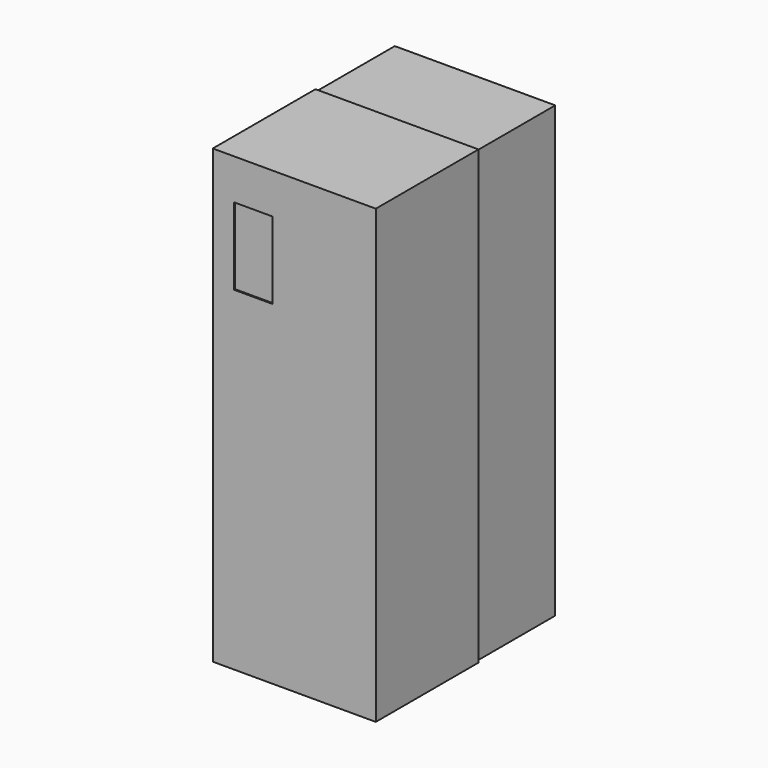
from build123d import *

# Parameters (mm, degrees)
F0_W     = 250
F0_H     = 700
F1_DEPTH = 175
F3_W     = 254
F3_H     = 704
F3_W_2   = 250
F3_H_2   = 700
F3_W_3   = 60
F3_H_3   = 120
F4_DEPTH = 200


with BuildPart() as f1:
    # F0 (on Front) → F1 (new body, symmetric)
    with BuildSketch(Plane.XZ):
        with Locations((-125, 350)):
            Rectangle(F0_W, F0_H)
    extrude(amount=F1_DEPTH, both=True)


with BuildPart() as f4:
    # F3 (on offset) → F4 (new body)
    with BuildSketch(Plane.XZ.offset(177)):
        with Locations((-125, 350)):
            Rectangle(F3_W, F3_H)
        with Locations((-125, 350)):
            Rectangle(F3_W_2, F3_H_2, mode=Mode.SUBTRACT)
        with Locations((-125, 350)):
            Rectangle(F3_W_2, F3_H_2)
        with Locations((-188.9762717485, 578.9604759216)):
            Rectangle(F3_W_3, F3_H_3, mode=Mode.SUBTRACT)
    extrude(amount=-F4_DEPTH)


solid = Compound([f1.part, f4.part])
